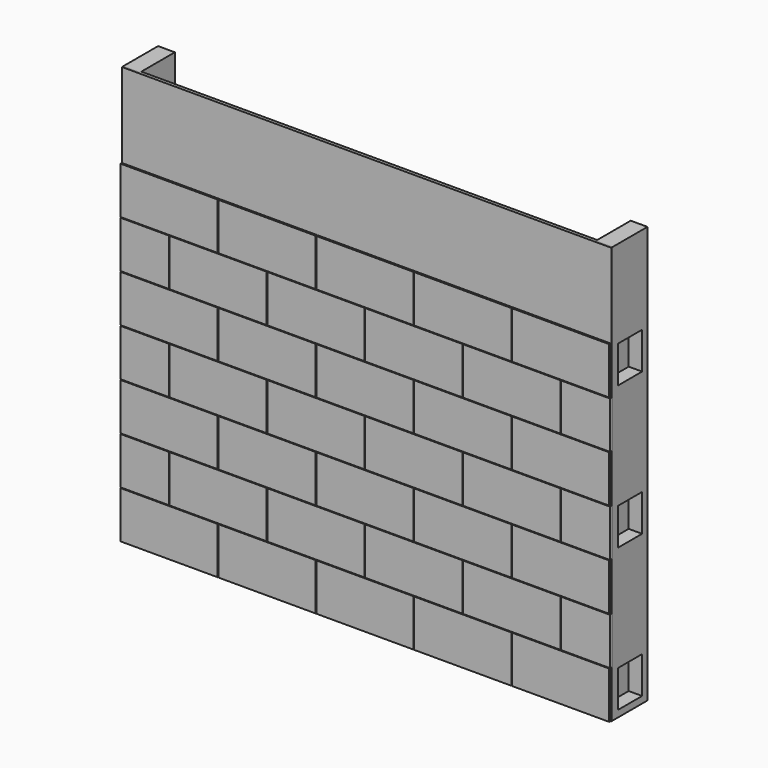
from build123d import *

# Parameters (mm, degrees)
BOX001_W         = 146
BOX001_H         = 1
BOX001_DEPTH     = 124.4
BOX002_W         = 87.6
BOX002_H         = 2
BOX002_DEPTH     = 99.4
BOX003_W         = 87.6
BOX003_H         = 2
BOX003_DEPTH     = 99.4
BOX_W            = 29
BOX_H            = 2
BOX_DEPTH        = 14
ARRAY001_X_COUNT = 6
ARRAY001_X_PITCH = 29.2
ARRAY001_Z_COUNT = 7
ARRAY001_Z_PITCH = 20.366639389
ARRAY_X_COUNT    = 5
ARRAY_X_PITCH    = 29.2
ARRAY_Z_COUNT    = 7
ARRAY_Z_PITCH    = 20.366639389
BOX005_W         = 4
BOX005_H         = 9
BOX005_DEPTH     = 11
ARRAY002_Z_COUNT = 3
ARRAY002_Z_PITCH = 42.6
BOX004_W         = 5
BOX004_H         = 13
BOX004_DEPTH     = 124.4
ARRAY003_COUNT   = 2


with BuildPart() as obj1:
    # Box001 → Box001 (new body)
    with BuildSketch(Plane(origin=(0, 0.5, 0), x_dir=(1, 0, 0), z_dir=(0, 0, 1))):
        with Locations((73, 0.5)):
            Rectangle(BOX001_W, BOX001_H)
    extrude(amount=BOX001_DEPTH)


with BuildPart() as obj2:
    # Box002 → Box002 (new body)
    with BuildSketch(Plane(origin=(-87.6, 0, 0), x_dir=(1, 0, 0), z_dir=(0, 0, 1))):
        with Locations((43.8, 1)):
            Rectangle(BOX002_W, BOX002_H)
    extrude(amount=BOX002_DEPTH)


with BuildPart() as obj3:
    # Box003 → Box003 (new body)
    with BuildSketch(Plane(origin=(146, 0, 0), x_dir=(1, 0, 0), z_dir=(0, 0, 1))):
        with Locations((43.8, 1)):
            Rectangle(BOX003_W, BOX003_H)
    extrude(amount=BOX003_DEPTH)

    # Fusion001: union obj2
    add(obj2.part)


with BuildPart() as obj4:
    # Box → Box (new body)
    with BuildSketch(Plane.XY):
        with Locations((14.5, 1)):
            Rectangle(BOX_W, BOX_H)
    extrude(amount=BOX_DEPTH)


with BuildPart() as pared2:
    # Array001 base: copy of obj4
    add(obj4.part)

    # Array001 X: Pared2 ×6


with BuildPart() as pared2_1:
    add(pared2.part)
    with Locations(*[(i * ARRAY001_X_PITCH, 0, 0) for i in range(1, ARRAY001_X_COUNT)]):
        add(pared2.part)

    # Array001 Z: Pared2 ×7


with BuildPart() as pared2_2:
    add(pared2_1.part)
    with Locations(*[Vector(-0.7168585706, 0, 0.6972186097) * (i * ARRAY001_Z_PITCH) for i in range(1, ARRAY001_Z_COUNT)]):
        add(pared2_1.part)


with BuildPart() as obj5:
    # Array base: copy of obj4
    add(obj4.part)

    # Array X: obj5 ×5


with BuildPart() as obj5_1:
    add(obj5.part)
    with Locations(*[(i * ARRAY_X_PITCH, 0, 0) for i in range(1, ARRAY_X_COUNT)]):
        add(obj5.part)

    # Array Z: obj5 ×7


with BuildPart() as obj5_2:
    add(obj5_1.part)
    with Locations(*[Vector(0.7168585706, 0, 0.6972186097) * (i * ARRAY_Z_PITCH) for i in range(1, ARRAY_Z_COUNT)]):
        add(obj5_1.part)

    # Fusion: union Pared2
    add(pared2_2.part)

    # Cut: cut obj3
    add(obj3.part, mode=Mode.SUBTRACT)


with BuildPart() as obj6:
    # Box005 → Box005 (new body)
    with BuildSketch(Plane(origin=(0, 2, 2), x_dir=(1, 0, 0), z_dir=(0, 0, 1))):
        with Locations((2, 4.5)):
            Rectangle(BOX005_W, BOX005_H)
    extrude(amount=BOX005_DEPTH)

    # Array002 Z: obj6 ×3


with BuildPart() as obj6_1:
    add(obj6.part)
    with Locations(*[(0, 0, i * ARRAY002_Z_PITCH) for i in range(1, ARRAY002_Z_COUNT)]):
        add(obj6.part)


with BuildPart() as obj7:
    # Box004 → Box004 (new body)
    with BuildSketch(Plane.XY):
        with Locations((2.5, 6.5)):
            Rectangle(BOX004_W, BOX004_H)
    extrude(amount=BOX004_DEPTH)

    # Cut001: cut obj6
    add(obj6_1.part, mode=Mode.SUBTRACT)


with BuildPart() as obj7_1:
    # Cut001 placement: moved
    add(obj7.part.moved(Location((0, 1, 0))))

    # Array003: obj7_2 about axis
    array003_axis = Axis((73, 7.5, 0), (0, 0, 1))


with BuildPart() as obj7_2:
    add(obj7_1.part)
    for i in range(1, ARRAY003_COUNT):
        add(obj7_1.part.rotate(array003_axis, i * 360 / ARRAY003_COUNT))


solid = Compound([obj1.part, obj5_2.part, obj7_2.part])
